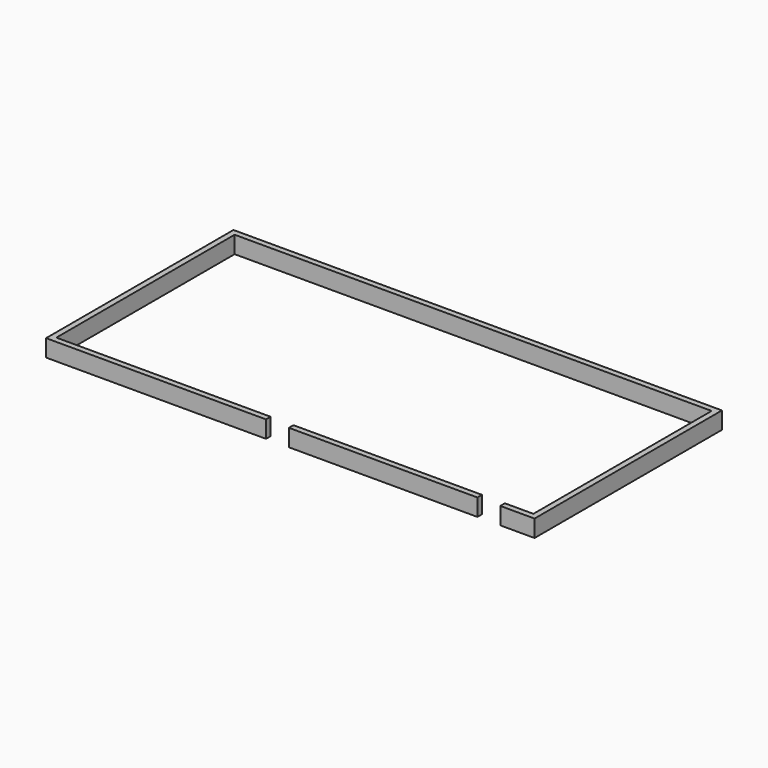
from build123d import *

# Parameters (mm, degrees)
F0_W     = 4343.4
F0_H     = 2082.8
F0_W_2   = 4241.8
F0_H_2   = 1981.2
F1_DEPTH = 152.4
F2_W     = 203.2
F2_H     = 76.2
F3_DEPTH = 152.401


with BuildPart() as f1:
    # F0 (on Top) → F1 (new body)
    with BuildSketch(Plane.XY):
        with Locations((497.562171024, -237.4829803467)):
            Rectangle(F0_W, F0_H)
        with Locations((497.562171024, -237.4829803467)):
            Rectangle(F0_W_2, F0_H_2, mode=Mode.SUBTRACT)
    extrude(amount=F1_DEPTH)

    # F2 (on Top) → F3 (cut, through all)
    with BuildSketch(Plane.XY):
        with Locations((383.262171024, -1253.4829803467)):
            Rectangle(F2_W, F2_H)
        with Locations((2262.862171024, -1253.4829803467)):
            Rectangle(F2_W, F2_H)
    extrude(amount=F3_DEPTH, mode=Mode.SUBTRACT)


solid = f1.part
